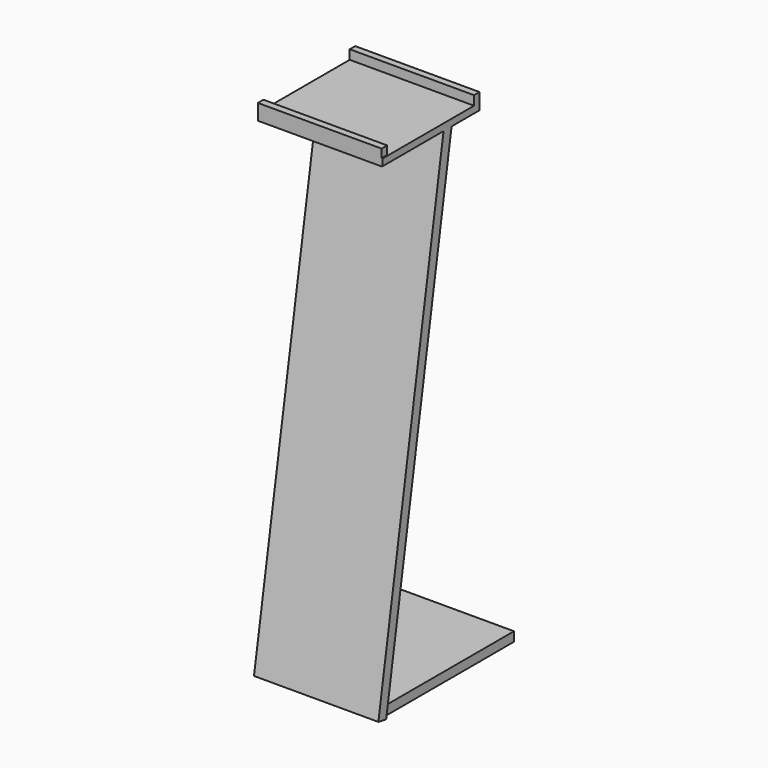
from build123d import *

# Parameters (mm, degrees)
F0_W          = 3.0335542979
F0_H          = 151.8673300743
F1_DEPTH      = 19.05
F1_DEPTH_BACK = 19.05
F2_ANGLE      = 9.5
F3_W          = 37.5402383506
F3_H          = 2.8439536691
F4_DEPTH      = 50.8
F5_W          = 36.9333513081
F5_H          = 2.0887702703
F6_DEPTH      = 19.05
F6_DEPTH_BACK = 19.05
F7_W          = 2.0887777209
F7_H          = 4.9371048808
F8_DEPTH      = 19.05
F8_DEPTH_BACK = 19.05
F9_W          = 37.9011612386
F9_H          = 4.8097893596
F10_DEPTH     = 2.1336


with BuildPart() as f1:
    # F0 (on Right) → F1 (new body, two sides)
    with BuildSketch(Plane.YZ) as f1_sk:
        with Locations((-0.0947989174, 0)):
            Rectangle(F0_W, F0_H)
    extrude(amount=F1_DEPTH)
    extrude(f1_sk.sketch, amount=-F1_DEPTH_BACK)


with BuildPart() as f1_1:
    # F2: moved
    add(f1.part.rotate(Axis((0, -1.6115760664, -75.9336650372), (-1, 0, 0)), F2_ANGLE))

    # F3 (on Front) → F4 (join)
    with BuildSketch(Plane.XZ):
        with Locations((-0.0947974622, -74.3220858276)):
            Rectangle(F3_W, F3_H)
    extrude(amount=-F4_DEPTH)

    # F5 (on Right) → F6 (join, two sides)
    with BuildSketch(Plane.YZ) as f6_sk:
        with Locations((18.4666756541, 74.3191987276)):
            Rectangle(F5_W, F5_H)
    extrude(amount=F6_DEPTH)
    extrude(f6_sk.sketch, amount=-F6_DEPTH_BACK)

    # F7 (on Right) → F8 (join, two sides)
    with BuildSketch(Plane.YZ) as f8_sk:
        with Locations((36.07885167, 75.7433660328)):
            Rectangle(F7_W, F7_H)
    extrude(amount=F8_DEPTH)
    extrude(f8_sk.sketch, amount=-F8_DEPTH_BACK)

    # F9 (on Front) → F10 (join)
    with BuildSketch(Plane.XZ):
        with Locations((-0.1923916861, 75.5367614329)):
            Rectangle(F9_W, F9_H)
    extrude(amount=-F10_DEPTH)


solid = f1_1.part
